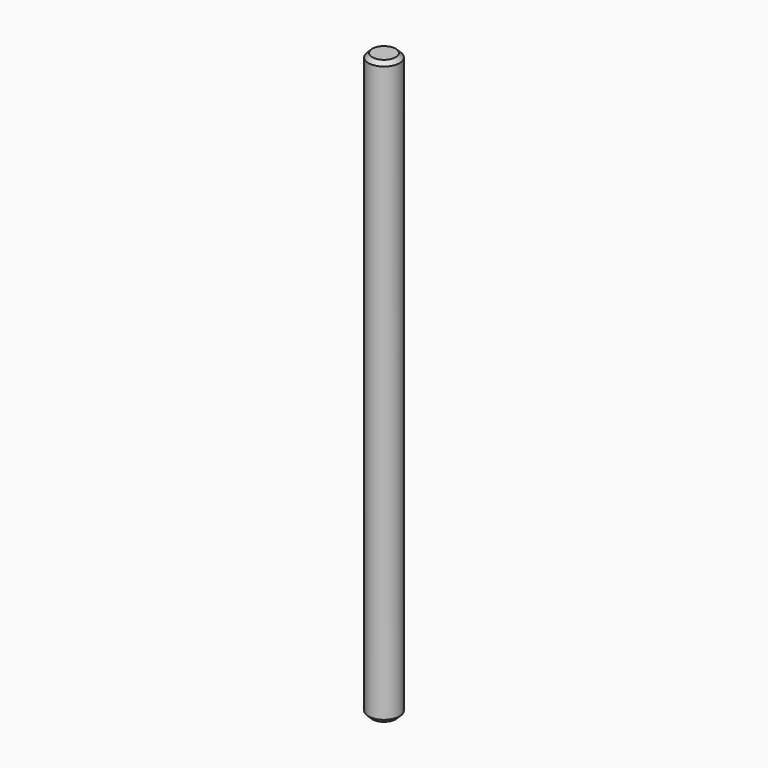
from build123d import *

# Parameters (mm, degrees)
CYLINDER_R      = 4
CYLINDER_DEPTH  = 150
CHAMFER_SIZE    = 1
CHAMFER001_SIZE = 1


with BuildPart() as part:
    # Cylinder → Cylinder (new body)
    with BuildSketch(Plane.XY):
        Circle(CYLINDER_R)
    extrude(amount=CYLINDER_DEPTH)

    # Chamfer
    chamfer_edges = [part.edges().sort_by_distance(p)[0] for p in [
        (-4, 0, 150),
    ]]
    chamfer(chamfer_edges, length=CHAMFER_SIZE)

    # Chamfer001
    chamfer001_edges = [part.edges().sort_by_distance(p)[0] for p in [
        (-4, 0, 0),
    ]]
    chamfer(chamfer001_edges, length=CHAMFER001_SIZE)


solid = part.part
